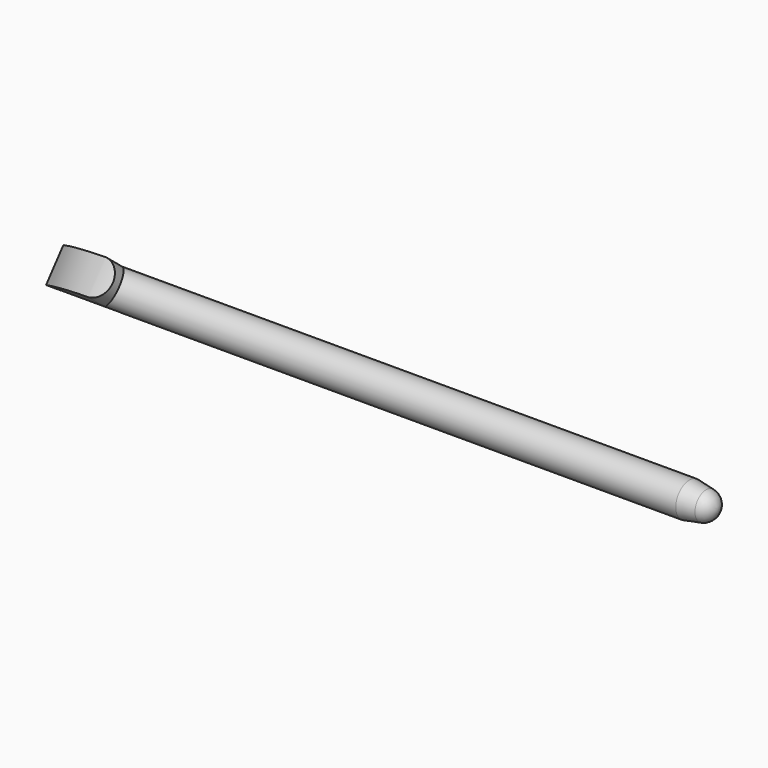
from build123d import *

# Parameters (mm, degrees)
SKETCH_R             = 2.45
PAD_DEPTH            = 96
PAD001_DEPTH         = 3.95
POCKET_DEPTH         = 5
PAD002_DEPTH         = 1
PAD002_DEPTH_BACK    = 1
POCKET001_DEPTH      = 10
POCKET002_DEPTH      = 100
POCKET002_DEPTH_BACK = -100
BODY_PLACEMENT_ANGLE = 50.86


with BuildPart() as part:
    # Sketch → Pad (new body)
    with BuildSketch(Plane.YZ):
        Circle(SKETCH_R)
    extrude(amount=PAD_DEPTH)

    # Sketch001 → Pad001 (join)
    with BuildSketch(Plane.XY):
        with BuildLine():
            Line((0, -2.45), (0, 2.45))
            Line((0, 2.45), (9.15, 2.45))
            ThreePointArc((9.15, -2.45), (11.6, 0), (9.15, 2.45))
            Line((9.15, -2.45), (0, -2.45))
        make_face()
    extrude(amount=PAD001_DEPTH)

    # Sketch002 (on Face4 of Pad001) → Pocket (cut)
    with BuildSketch(Plane(origin=(0, -2.45, 0), x_dir=(0, 0, -1), z_dir=(0, -1, 0))):
        with BuildLine():
            Line((-3.95, 11.6), (-3.95, -0.8))
            Line((-3.95, -0.8), (2.45, -0.8))
            Line((2.45, -0.8), (2.45, 0.2))
            Line((1.520231, 0.2), (2.45, 0.2))
            ThreePointArc((0, 0.900424), (0.683318, 0.383526), (1.520231, 0.2))
            ThreePointArc((-3.95, 11.6), (-2.930968, 5.897294), (0, 0.900424))
        make_face()
    extrude(amount=-POCKET_DEPTH, mode=Mode.SUBTRACT)

    # Sketch003 → Pad002 (join, two sides)
    with BuildSketch(Plane.XZ) as pad002_sk:
        with BuildLine():
            add(Edge.make_bspline(
                [(7.95, -2.45), (7.95, -1.583975), (6.6375, -2.016987), (5.325, -2.45), (6.6375, -2.883013), (7.95, -3.316025), (7.95, -2.45)],
                knots=[0, 0, 0, 2.094395, 2.094395, 4.18879, 4.18879, 6.283185, 6.283185, 6.283185], degree=2, weights=[1, 0.5, 1, 0.5, 1, 0.5, 1]))
        make_face()
    extrude(amount=PAD002_DEPTH)
    extrude(pad002_sk.sketch, amount=-PAD002_DEPTH_BACK)

    # Sketch004 (on Face2 of Pad002) → Pocket001 (cut)
    with BuildSketch(Plane(origin=(0, -2.45, 0), x_dir=(0, 0, -1), z_dir=(0, -1, 0))):
        with BuildLine():
            Line((1.45, 4.075), (1.45, 10.075))
            ThreePointArc((1.45, 10.075), (1.025305, 11.100305), (0, 11.525))
            Line((0, 2.625), (0, 11.525))
            ThreePointArc((0, 2.625), (1.025305, 3.049695), (1.45, 4.075))
        make_face()
    extrude(amount=-POCKET001_DEPTH, mode=Mode.SUBTRACT)

    # Sketch005 → Groove (revolve, cut)
    with BuildSketch(Plane.XZ):
        with BuildLine():
            Line((96, 2.45), (91.9, 2.45))
            Line((91.9, 2.45), (94.311588, 2.017859))
            ThreePointArc((96, 0), (95.52222, 1.315531), (94.311588, 2.017859))
            Line((96, 0), (97, 0))
            Line((97, 2.45), (97, 0))
            Line((96, 2.45), (97, 2.45))
        make_face()
    revolve(axis=Axis((0, 0, 0), (1, 0, 0)), mode=Mode.SUBTRACT)

    # Sketch006 → Pocket002 (cut, two sides)
    with BuildSketch(Plane.YZ) as pocket002_sk:
        Polygon((-2.020175, -1.386144), (-0.747522, -2.95), (-2.020175, -2.95), align=None)
    extrude(amount=-POCKET002_DEPTH, mode=Mode.SUBTRACT)
    extrude(pocket002_sk.sketch, amount=-POCKET002_DEPTH_BACK, mode=Mode.SUBTRACT)


with BuildPart() as part_1:
    # Body placement: moved
    add(part.part.rotate(Axis((0, 0, 0), (1, 0, 0)), BODY_PLACEMENT_ANGLE))


solid = part_1.part
